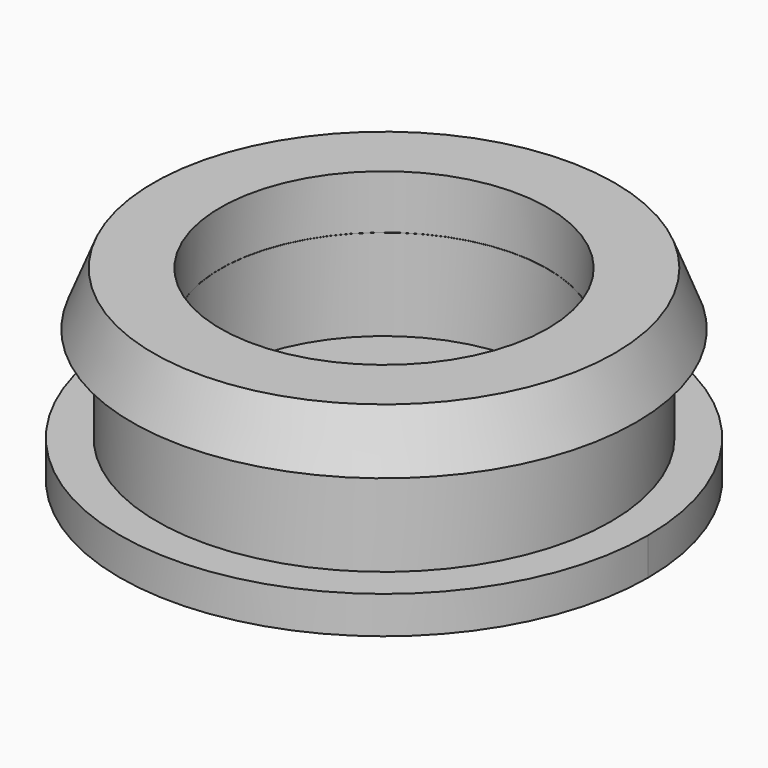
from build123d import *

# Parameters (mm, degrees)
F0_W     = 5.0165
F0_H     = 2.7894913001
F3_W     = 0.5937354872
F3_H     = 0.4102843814
F4_DEPTH = 3.175


with BuildPart() as f1:
    # F0 (on Front) → F1 (revolve)
    with BuildSketch(Plane.XZ):
        Polygon((5.0165, 5.1480086999), (5.0165, 3.4970086999), (7.721603642, 3.4970086999), (7.0656258613, 5.1480086999), align=None)
    revolve(axis=Axis((0, 0, 2.28825435), (0, 0, 1)))

    # F0 (on Front) → F2 (revolve, cut)
    with BuildSketch(Plane.XZ):
        with Locations((-2.50825, 2.09775435)):
            Rectangle(F0_W, F0_H)
    revolve(axis=Axis((0, 0, 2.28825435), (0, 0, 1)), mode=Mode.SUBTRACT)


with BuildPart() as f1b:
    # F0 (on Front) → F1, piece 2 (revolve)
    with BuildSketch(Plane.XZ):
        Polygon((0, 0.7030086999), (0, 0.5715), (6.9496983094, 0.5715), (6.9496983094, 3.4925), (5.0165, 3.4925), (5.0165, 0.7030086999), align=None)
        Polygon((0, 0.5715), (0, -0.5715), (8.0899, -0.5715), (8.0899, 0.5715), (6.9496983094, 0.5715), align=None)
    revolve(axis=Axis((0, 0, 2.28825435), (0, 0, 1)))

    # F3 (on Top) → F4 (cut, symmetric)
    with BuildSketch(Plane.XY):
        with Locations((0, 7.8913413454)):
            Rectangle(F3_W, F3_H)
    extrude(amount=F4_DEPTH, both=True, mode=Mode.SUBTRACT)


solid = Compound([f1.part, f1b.part])
